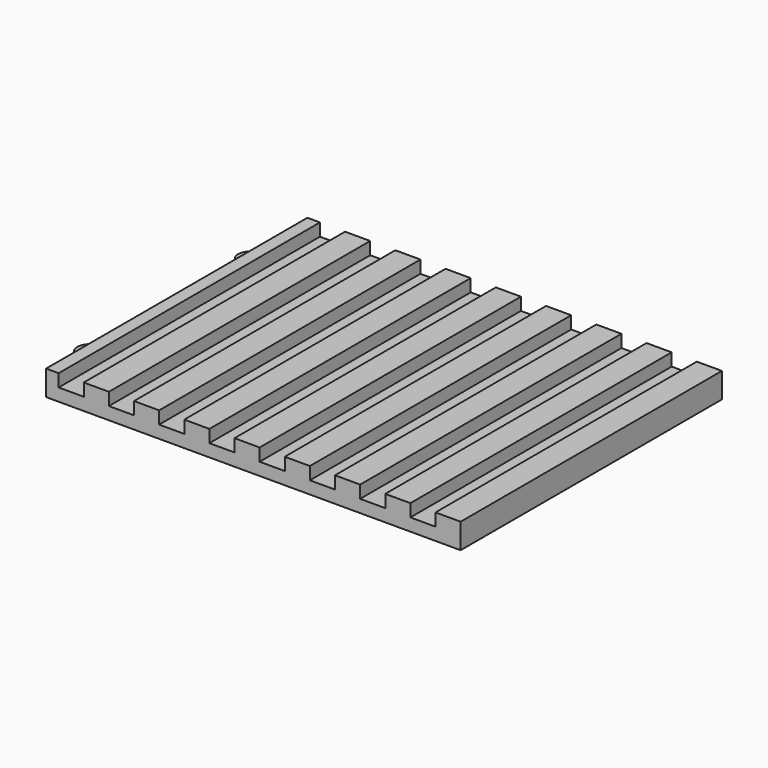
from build123d import *

# Parameters (mm, degrees)
F1_DEPTH = 165.1
F2_R     = 2.3876
F3_DEPTH = 6.35


with BuildPart() as f1:
    # F0 (on Front) → F1 (new body)
    with BuildSketch(Plane.XZ):
        Polygon((-104.775, 12.7), (-104.775, 0), (104.775, 0), (104.775, 12.7), (92.075, 12.7), (92.075, 6.35), (79.375, 6.35), (79.375, 12.7), (66.675, 12.7), (66.675, 6.35), (53.975, 6.35), (53.975, 12.7), (41.275, 12.7), (41.275, 6.35), (28.575, 6.35), (28.575, 12.7), (15.875, 12.7), (15.875, 6.35), (3.175, 6.35), (3.175, 12.7), (-9.525, 12.7), (-9.525, 6.35), (-22.225, 6.35), (-22.225, 12.7), (-34.925, 12.7), (-34.925, 6.35), (-47.625, 6.35), (-47.625, 12.7), (-60.325, 12.7), (-60.325, 6.35), (-73.025, 6.35), (-73.025, 12.7), (-85.725, 12.7), (-85.725, 6.35), (-98.425, 6.35), (-98.425, 12.7), align=None)
    extrude(amount=F1_DEPTH)

    # F2 (on face) → F3 (join)
    with BuildSketch(Plane(origin=(0, 0, 0), x_dir=(1, 0, 0), z_dir=(0, 0, -1))):
        with BuildLine():
            Line((-107.95, 25.4), (-104.775, 25.4))
            Line((-104.775, 25.4), (-104.775, 38.1))
            Line((-104.775, 38.1), (-107.95, 38.1))
            ThreePointArc((-107.95, 38.1), (-114.3, 31.75), (-107.95, 25.4))
        make_face()
        with Locations((-107.95, 31.75)):
            Circle(F2_R, mode=Mode.SUBTRACT)
        with BuildLine():
            ThreePointArc((-107.95, 139.7), (-114.3, 133.35), (-107.95, 127))
            Line((-107.95, 127), (-104.775, 127))
            Line((-104.775, 127), (-104.775, 139.7))
            Line((-104.775, 139.7), (-107.95, 139.7))
        make_face()
        with Locations((-107.95, 133.35)):
            Circle(F2_R, mode=Mode.SUBTRACT)
    extrude(amount=-F3_DEPTH)


solid = f1.part
